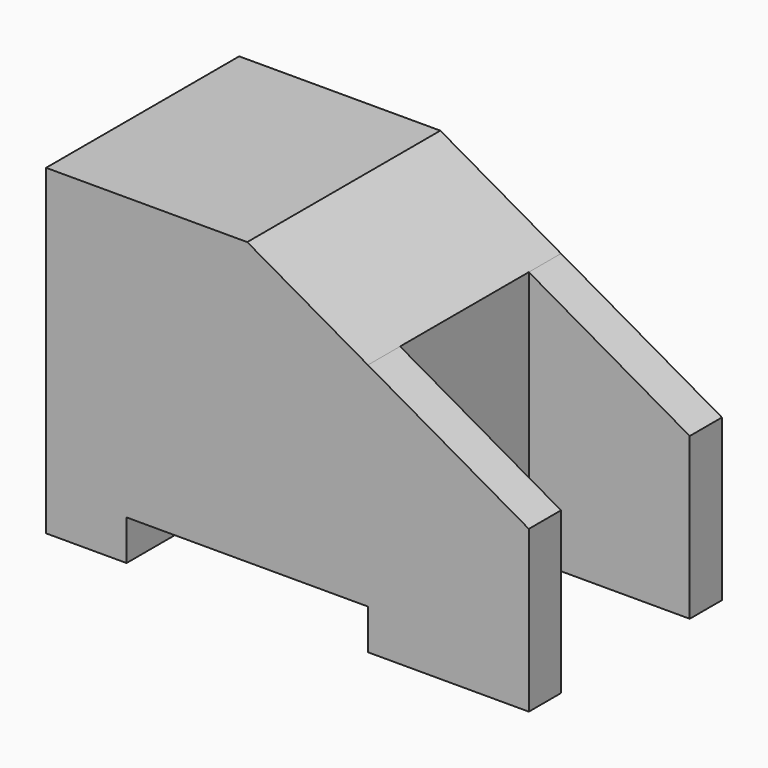
from build123d import *

# Parameters (mm, degrees)
F1_DEPTH = 7.5
F2_DEPTH = 5


with BuildPart() as f1:
    # F0 (on Front) → F1 (new body, symmetric)
    with BuildSketch(Plane.XZ):
        Polygon((0, 20), (0, 0), (5, 0), (5, 2.5), (20, 2.5), (20, 15.714286), (12.5, 20), align=None)
        Polygon((30, 10), (20, 15.714286), (20, 2.5), (20, 0), (30, 0), align=None)
    extrude(amount=F1_DEPTH, both=True)

    # F0 (on Front) → F2 (cut, symmetric)
    with BuildSketch(Plane.XZ):
        Polygon((30, 10), (20, 15.714286), (20, 2.5), (20, 0), (30, 0), align=None)
    extrude(amount=F2_DEPTH, both=True, mode=Mode.SUBTRACT)


solid = f1.part
